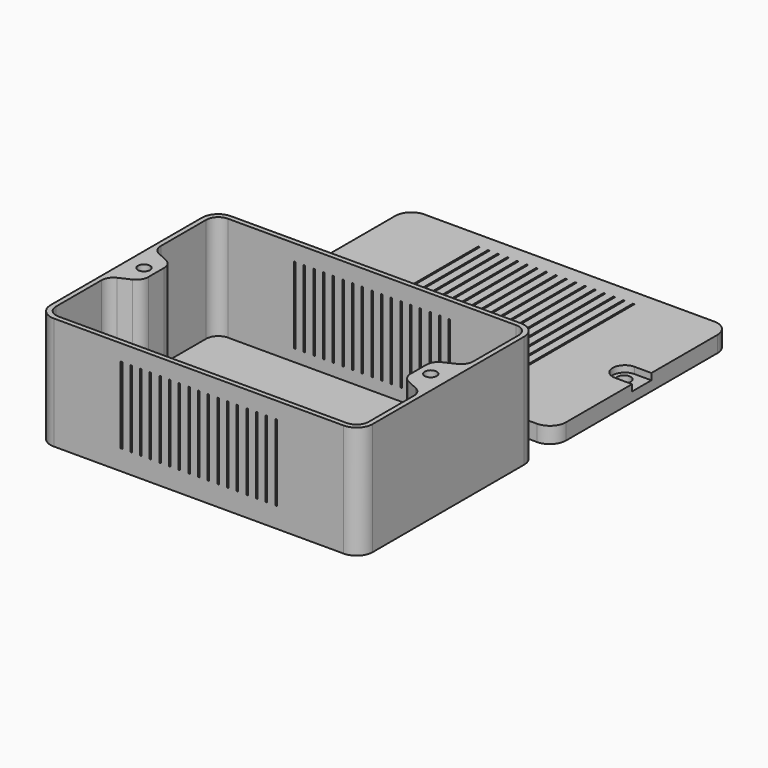
from build123d import *

# Parameters (mm, degrees)
BOX_W           = 80
BOX_H           = 55
BOX_DEPTH       = 2
SKETCH_W        = 80
SKETCH_H        = 55
PAD_DEPTH       = 26
SKETCH003_R     = 1.5
POCKET001_DEPTH = 7
FILLET001_R     = 4
FILLET002_R     = 3
FILLET003_R     = 3
FILLET004_R     = 3
SKETCH006_W     = 0.4
SKETCH006_H     = 19
SKETCH006_H_2   = 18.931276
POCKET004_DEPTH = 55.001
BOX001_W        = 80
BOX001_H        = 55
BOX001_DEPTH    = 4
SKETCH001_R     = 1.68
POCKET_DEPTH    = 5
POCKET002_DEPTH = 1.6
FILLET_R        = 4
SKETCH007_W     = 0.4
SKETCH007_H     = 46
POCKET005_DEPTH = 5


with BuildPart() as pocket004:
    # Box → Box (new body)
    with BuildSketch(Plane.XY):
        with Locations((40, 27.5)):
            Rectangle(BOX_W, BOX_H)
    extrude(amount=BOX_DEPTH)

    # Sketch → Pad (new body)
    with BuildSketch(Plane.XY.offset(2)):
        with Locations((40, 27.5)):
            Rectangle(SKETCH_W, SKETCH_H)
        Polygon((1.2, 53.8), (78.8, 53.8), (78.8, 34.8), (72.556812, 31.888754), (72.556812, 23.111246), (78.8, 20.2), (78.8, 1.2), (1.2, 1.2), (1.2, 20.2), (7.443188, 23.111246), (7.443188, 31.888754), (1.2, 34.8), align=None, mode=Mode.SUBTRACT)
    extrude(amount=PAD_DEPTH)

    # Sketch003 → Pocket001 (cut)
    with BuildSketch(Plane.XY.offset(28)):
        with Locations((4.4, 27.5)):
            Circle(SKETCH003_R)
        with Locations((75.6, 27.5)):
            Circle(SKETCH003_R)
    extrude(amount=-POCKET001_DEPTH, mode=Mode.SUBTRACT)

    # Fillet001
    fillet001_edges = [pocket004.edges().sort_by_distance(p)[0] for p in [
        (0, 55, 15),
        (0, 55, 1),
        (80, 55, 1),
        (80, 55, 15),
        (80, 0, 1),
        (80, 0, 15),
        (0, 0, 1),
        (0, 0, 15),
    ]]
    fillet(fillet001_edges, radius=FILLET001_R)

    # Fillet002
    fillet002_edges = [pocket004.edges().sort_by_distance(p)[0] for p in [
        (78.8, 53.8, 15),
        (1.2, 53.8, 15),
        (1.2, 1.2, 15),
        (78.8, 1.2, 15),
    ]]
    fillet(fillet002_edges, radius=FILLET002_R)

    # Fillet003
    fillet003_edges = [pocket004.edges().sort_by_distance(p)[0] for p in [
        (1.2, 34.8, 15),
        (1.2, 20.2, 15),
        (78.8, 20.2, 15),
        (78.8, 34.8, 15),
    ]]
    fillet(fillet003_edges, radius=FILLET003_R)

    # Fillet004
    fillet004_edges = [pocket004.edges().sort_by_distance(p)[0] for p in [
        (72.556812, 23.111246, 15),
        (72.556812, 31.888754, 15),
        (7.443188, 23.111246, 15),
        (7.443188, 31.888754, 15),
    ]]
    fillet(fillet004_edges, radius=FILLET004_R)

    # Sketch006 → Pocket004 (cut, through all)
    with BuildSketch(Plane.XZ):
        with Locations((20.8, 14.5)):
            Rectangle(SKETCH006_W, SKETCH006_H)
        with Locations((23.2, 14.5)):
            Rectangle(SKETCH006_W, SKETCH006_H)
        with Locations((25.6, 14.5)):
            Rectangle(SKETCH006_W, SKETCH006_H)
        with Locations((28, 14.5)):
            Rectangle(SKETCH006_W, SKETCH006_H)
        with Locations((30.4, 14.5)):
            Rectangle(SKETCH006_W, SKETCH006_H)
        with Locations((32.8, 14.5)):
            Rectangle(SKETCH006_W, SKETCH006_H)
        with Locations((35.2, 14.5)):
            Rectangle(SKETCH006_W, SKETCH006_H)
        with Locations((37.6, 14.5)):
            Rectangle(SKETCH006_W, SKETCH006_H)
        with Locations((39.998819, 14.465638)):
            Rectangle(SKETCH006_W, SKETCH006_H_2)
        with Locations((42.398819, 14.465638)):
            Rectangle(SKETCH006_W, SKETCH006_H_2)
        with Locations((44.798819, 14.465638)):
            Rectangle(SKETCH006_W, SKETCH006_H_2)
        with Locations((59.198819, 14.465638)):
            Rectangle(SKETCH006_W, SKETCH006_H_2)
        with Locations((47.198819, 14.465638)):
            Rectangle(SKETCH006_W, SKETCH006_H_2)
        with Locations((49.598819, 14.465638)):
            Rectangle(SKETCH006_W, SKETCH006_H_2)
        with Locations((51.998819, 14.465638)):
            Rectangle(SKETCH006_W, SKETCH006_H_2)
        with Locations((54.398819, 14.465638)):
            Rectangle(SKETCH006_W, SKETCH006_H_2)
        with Locations((56.798819, 14.465638)):
            Rectangle(SKETCH006_W, SKETCH006_H_2)
    extrude(amount=-POCKET004_DEPTH, mode=Mode.SUBTRACT)


with BuildPart() as pocket005:
    # Box001 → Box001 (new body)
    with BuildSketch(Plane(origin=(0, 60, 0), x_dir=(1, 0, 0), z_dir=(0, 0, 1))):
        with Locations((40, 27.5)):
            Rectangle(BOX001_W, BOX001_H)
    extrude(amount=BOX001_DEPTH)

    # Sketch001 → Pocket (cut)
    with BuildSketch(Plane(origin=(0, 60, 4), x_dir=(1, 0, 0), z_dir=(0, 0, 1))):
        with Locations((4.4, 27.5)):
            Circle(SKETCH001_R)
        with Locations((75.6, 27.5)):
            Circle(SKETCH001_R)
    extrude(amount=-POCKET_DEPTH, mode=Mode.SUBTRACT)

    # Sketch004 → Pocket002 (cut)
    with BuildSketch(Plane(origin=(0, 60, 4), x_dir=(1, 0, 0), z_dir=(0, 0, 1))):
        with BuildLine():
            ThreePointArc((-0.983226, 30.5), (-3.983226, 27.5), (-0.983226, 24.5))
            Line((-0.983226, 24.5), (4.4, 24.5))
            ThreePointArc((4.4, 24.5), (7.4, 27.5), (4.4, 30.5))
            Line((-0.983226, 30.5), (4.4, 30.5))
        make_face()
        with BuildLine():
            ThreePointArc((81.072225, 24.5), (84.072225, 27.5), (81.072225, 30.5))
            Line((81.072225, 30.5), (75.8, 30.5))
            ThreePointArc((75.8, 30.5), (72.8, 27.5), (75.8, 24.5))
            Line((81.072225, 24.5), (75.8, 24.5))
        make_face()
    extrude(amount=-POCKET002_DEPTH, mode=Mode.SUBTRACT)

    # Fillet
    fillet_edges = [pocket005.edges().sort_by_distance(p)[0] for p in [
        (80, 60, 2),
        (80, 115, 2),
        (0, 115, 2),
        (0, 60, 2),
    ]]
    fillet(fillet_edges, radius=FILLET_R)

    # Sketch007 → Pocket005 (cut)
    with BuildSketch(Plane(origin=(0, 60, 4), x_dir=(1, 0, 0), z_dir=(0, 0, 1))):
        with Locations((20.8, 28)):
            Rectangle(SKETCH007_W, SKETCH007_H)
        with Locations((23.2, 28)):
            Rectangle(SKETCH007_W, SKETCH007_H)
        with Locations((25.6, 28)):
            Rectangle(SKETCH007_W, SKETCH007_H)
        with Locations((28, 28)):
            Rectangle(SKETCH007_W, SKETCH007_H)
        with Locations((30.4, 28)):
            Rectangle(SKETCH007_W, SKETCH007_H)
        with Locations((32.8, 28)):
            Rectangle(SKETCH007_W, SKETCH007_H)
        with Locations((35.2, 28)):
            Rectangle(SKETCH007_W, SKETCH007_H)
        with Locations((40, 28)):
            Rectangle(SKETCH007_W, SKETCH007_H)
        with Locations((37.6, 28)):
            Rectangle(SKETCH007_W, SKETCH007_H)
        with Locations((42.4, 28)):
            Rectangle(SKETCH007_W, SKETCH007_H)
        with Locations((44.8, 28)):
            Rectangle(SKETCH007_W, SKETCH007_H)
        with Locations((59.2, 28)):
            Rectangle(SKETCH007_W, SKETCH007_H)
        with Locations((47.2, 28)):
            Rectangle(SKETCH007_W, SKETCH007_H)
        with Locations((49.6, 28)):
            Rectangle(SKETCH007_W, SKETCH007_H)
        with Locations((52, 28)):
            Rectangle(SKETCH007_W, SKETCH007_H)
        with Locations((54.4, 28)):
            Rectangle(SKETCH007_W, SKETCH007_H)
        with Locations((56.8, 28)):
            Rectangle(SKETCH007_W, SKETCH007_H)
    extrude(amount=-POCKET005_DEPTH, mode=Mode.SUBTRACT)


solid = Compound([pocket004.part, pocket005.part])
